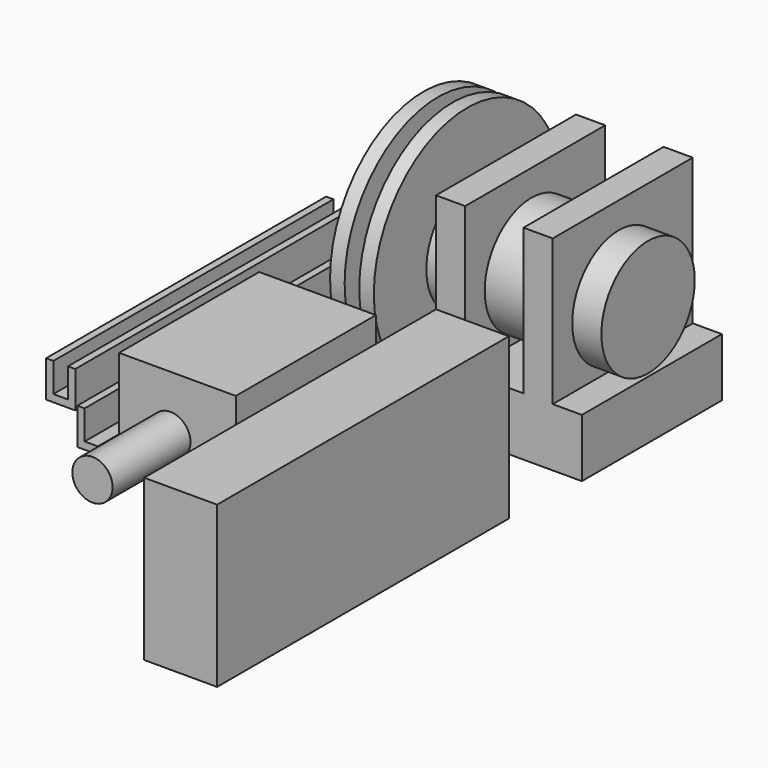
from build123d import *

# Parameters (mm, degrees)
F0_W           = 76.2
F0_H           = 76.2
F1_DEPTH       = 25.4
F2_W           = 12.7
F2_H           = 76.2
F3_DEPTH       = 63.5
F4_R           = 25.4
F5_DEPTH       = 12.7
F5_DEPTH_BACK  = 63.5
F6_R           = 3.175
F7_DEPTH       = 2.54
F8_R           = 50.8
F8_R_2         = 3.175
F9_DEPTH       = 6.35
F10_R          = 6.35
F11_DEPTH      = 6.35
F11_DEPTH_BACK = 25.4
F12_R          = 50.8
F12_R_2        = 6.35
F13_DEPTH      = 6.35
F14_R          = 6.35
F15_DEPTH      = 6.35
F15_DEPTH_BACK = 25.4
F16_W          = 8.89
F16_H          = 203.2
F17_DEPTH      = 3.175
F18_W          = 3.175
F18_H          = 203.2
F19_DEPTH      = 12.7
F20_W          = 50.8
F20_H          = 76.2
F21_DEPTH      = 45.72
F22_R          = 8.763
F23_DEPTH      = 42.418
F24_W          = 31.75
F24_H          = 158.75
F25_DEPTH      = 6.35
F27_DEPTH      = 9.525
F28_W          = 5.75394319
F28_H          = 152.4
F29_DEPTH      = 50.8
F30_W          = 31.75
F30_H          = 158.75
F30_W_2        = 22.82105681
F30_H_2        = 152.4
F31_DEPTH      = 3.175
F32_W          = 3.175
F32_H          = 171.45
F33_DEPTH      = 12.7
F34_W          = 12.7
F34_H          = 152.4
F35_DEPTH      = 3.175
F36_W          = 3.175
F36_H          = 152.4
F37_DEPTH      = 12.7


with BuildPart() as f1:
    # F0 (on Top) → F1 (new body)
    with BuildSketch(Plane.XY):
        with Locations((38.1, 38.1)):
            Rectangle(F0_W, F0_H)
    extrude(amount=F1_DEPTH)

    # F2 (on face) → F3 (join)
    with BuildSketch(Plane.XY.offset(25.4)):
        with Locations((57.15, 38.1)):
            Rectangle(F2_W, F2_H)
        with Locations((19.05, 38.1)):
            Rectangle(F2_W, F2_H)
    extrude(amount=F3_DEPTH)

    # F4 (on face) → F5 (join, two sides)
    with BuildSketch(Plane.YZ.offset(63.5)) as f5_sk:
        with Locations((36.0163860023, 52.07)):
            Circle(F4_R)
    extrude(amount=F5_DEPTH)
    extrude(f5_sk.sketch, amount=-F5_DEPTH_BACK)

    # F6 (on face) → F7 (join)
    with BuildSketch(Plane(origin=(0, 0, 0), x_dir=(0, -1, 0), z_dir=(-1, 0, 0))):
        with Locations((-36.0163860023, 52.07)):
            Circle(F6_R)
    extrude(amount=F7_DEPTH)

    # F8 (on face) → F9 (join)
    with BuildSketch(Plane(origin=(-2.54, 0, 0), x_dir=(0, -1, 0), z_dir=(-1, 0, 0))):
        with Locations((-36.0163860023, 52.07)):
            Circle(F8_R)
        with Locations((-36.0163860023, 52.07)):
            Circle(F8_R_2, mode=Mode.SUBTRACT)
        with Locations((-36.0163860023, 52.07)):
            Circle(F8_R_2)
    extrude(amount=F9_DEPTH)

    # F10 (on face) → F11 (join, two sides)
    with BuildSketch(Plane(origin=(-8.89, 0, 0), x_dir=(0, -1, 0), z_dir=(-1, 0, 0))) as f11_sk:
        with Locations((-36.0163860023, 52.07)):
            Circle(F10_R)
    extrude(amount=F11_DEPTH)
    extrude(f11_sk.sketch, amount=-F11_DEPTH_BACK)

    # F12 (on face) → F13 (join)
    with BuildSketch(Plane(origin=(-15.24, 0, 0), x_dir=(0, -1, 0), z_dir=(-1, 0, 0))):
        with Locations((-36.0163860023, 52.07)):
            Circle(F12_R)
        with Locations((-36.0163860023, 52.07)):
            Circle(F12_R_2, mode=Mode.SUBTRACT)
        with Locations((-36.0163860023, 52.07)):
            Circle(F12_R_2)
    extrude(amount=F13_DEPTH)

    # F14 (on face) → F15 (join, two sides)
    with BuildSketch(Plane(origin=(-21.59, 0, 0), x_dir=(0, -1, 0), z_dir=(-1, 0, 0))) as f15_sk:
        with Locations((-36.0163860023, 52.07)):
            Circle(F14_R)
    extrude(amount=F15_DEPTH)
    extrude(f15_sk.sketch, amount=-F15_DEPTH_BACK)


with BuildPart() as f17:
    # F16 (on Top) → F17 (new body)
    with BuildSketch(Plane.XY):
        with Locations((-68.9478659696, 14.0829309821)):
            Rectangle(F16_W, F16_H)
    extrude(amount=F17_DEPTH)

    # F18 (on face) → F19 (join)
    with BuildSketch(Plane.XY.offset(3.175)):
        with Locations((-71.8053659696, 14.0829309821)):
            Rectangle(F18_W, F18_H)
        with Locations((-66.0903659696, 14.0829309821)):
            Rectangle(F18_W, F18_H)
    extrude(amount=F19_DEPTH)

    # F32 (on face) → F33 (cut)
    with BuildSketch(Plane.XY.offset(15.875)):
        with Locations((-66.0903659696, -1.7920690179)):
            Rectangle(F32_W, F32_H)
    extrude(amount=-F33_DEPTH, mode=Mode.SUBTRACT)


with BuildPart() as f21:
    # F20 (on Top) → F21 (new body)
    with BuildSketch(Plane.XY):
        with Locations((-25.4, -54.9523236941)):
            Rectangle(F20_W, F20_H)
    extrude(amount=F21_DEPTH)

    # F22 (on face) → F23 (join)
    with BuildSketch(Plane.XZ.offset(93.0523236941)):
        with Locations((-28.4804850817, 21.5927474201)):
            Circle(F22_R)
    extrude(amount=F23_DEPTH)


with BuildPart() as f25:
    # F24 (on Top) → F25 (new body)
    with BuildSketch(Plane.XY):
        with Locations((58.1205990165, -116.3411861461)):
            Rectangle(F24_W, F24_H)
    extrude(amount=F25_DEPTH)

    # F26 (on face) → F27 (join)
    with BuildSketch(Plane.XY.offset(6.35)):
        Polygon((70.8205990165, -192.5411861461), (45.4205990165, -192.5411861461), (42.2455990165, -192.5411861461), (42.2455990165, -195.7161861461), (73.9955990165, -195.7161861461), (73.9955990165, -36.9661861461), (42.2455990165, -36.9661861461), (42.2455990165, -40.1411861461), (45.4205990165, -40.1411861461), (70.8205990165, -40.1411861461), align=None)
    extrude(amount=F27_DEPTH)

    # F28 (on face) → F29 (join)
    with BuildSketch(Plane.XY.offset(15.875)):
        with Locations((45.1225706115, -116.3411861461)):
            Rectangle(F28_W, F28_H)
        Polygon((42.2455990165, -192.5411861461), (42.2455990165, -195.7161861461), (73.9955990165, -195.7161861461), (73.9955990165, -36.9661861461), (42.2455990165, -36.9661861461), (42.2455990165, -40.1411861461), (47.9995422065, -40.1411861461), (70.8205990165, -40.1411861461), (70.8205990165, -192.5411861461), (47.9995422065, -192.5411861461), align=None)
    extrude(amount=F29_DEPTH)

    # F30 (on face) → F31 (join)
    with BuildSketch(Plane.XY.offset(66.675)):
        with Locations((58.1205990165, -116.3411861461)):
            Rectangle(F30_W, F30_H)
        with Locations((59.4100706115, -116.3411861461)):
            Rectangle(F30_W_2, F30_H_2, mode=Mode.SUBTRACT)
        with Locations((59.4100706115, -116.3411861461)):
            Rectangle(F30_W_2, F30_H_2)
    extrude(amount=F31_DEPTH)


with BuildPart() as f35:
    # F34 (on Top) → F35 (new body)
    with BuildSketch(Plane.XY):
        with Locations((-97.170727649, 9.307641536)):
            Rectangle(F34_W, F34_H)
    extrude(amount=F35_DEPTH)

    # F36 (on face) → F37 (join)
    with BuildSketch(Plane.XY.offset(3.175)):
        with Locations((-101.933227649, 9.307641536)):
            Rectangle(F36_W, F36_H)
        with Locations((-92.408227649, 9.307641536)):
            Rectangle(F36_W, F36_H)
    extrude(amount=F37_DEPTH)


solid = Compound([f1.part, f17.part, f21.part, f25.part, f35.part])
